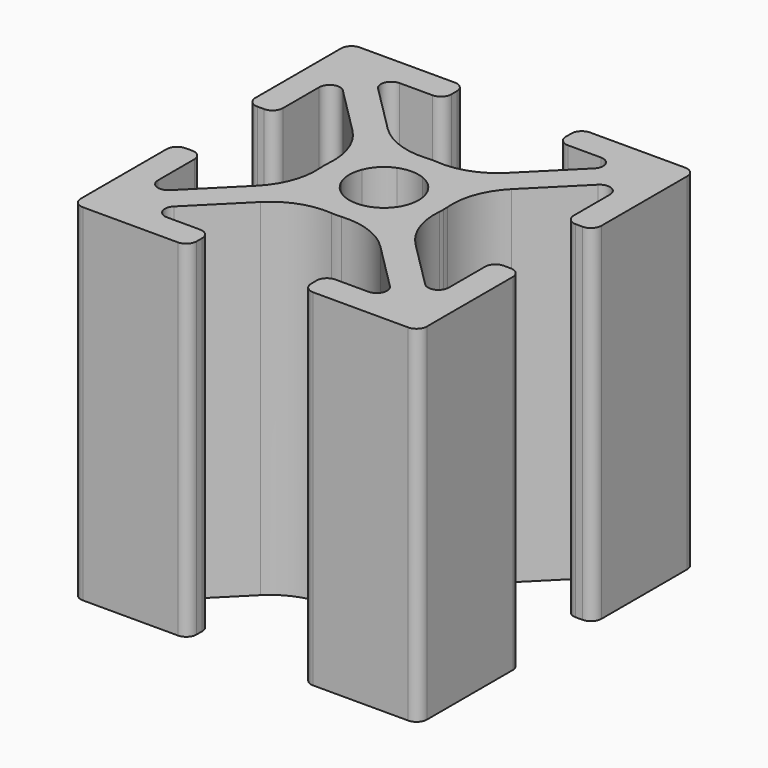
from build123d import *

# Parameters (mm, degrees)
F1_DEPTH = 25.4
F2_R     = 5.08
F3_R     = 0.762


with BuildPart() as f1:
    # F0 (on Top) → F1 (new body)
    with BuildSketch(Plane.XY):
        Polygon((-11.2631590206, 12.7), (-9.2311590206, 10.668), (-4.2022368871, 10.668), (-4.2022368871, 12.7), align=None)
        Polygon((-12.7, 11.2631590206), (-10.668, 9.2311590206), (-10.668, 10.668), (-9.2311590206, 10.668), (-11.2631590206, 12.7), (-12.7, 12.7), align=None)
        Polygon((-10.668, 3.302), (-10.668, 9.2311590206), (-12.7, 11.2631590206), (-12.7, 3.302), align=None)
        Polygon((-12.7, -3.302), (-12.7, -11.2631590206), (-10.668, -9.2311590206), (-10.668, -3.302), align=None)
        Polygon((-12.7, -12.7), (-11.2631590206, -12.7), (-9.2311590206, -10.668), (-10.668, -10.668), (-10.668, -9.2311590206), (-12.7, -11.2631590206), align=None)
        Polygon((-11.2631590206, -12.7), (-4.2022368871, -12.7), (-4.2022368871, -10.668), (-9.2311590206, -10.668), align=None)
        Polygon((4.2022368871, -12.7), (11.2631590206, -12.7), (9.2311590206, -10.668), (4.2022368871, -10.668), align=None)
        Polygon((11.2631590206, -12.7), (12.7, -12.7), (12.7, -11.2631590206), (10.668, -9.2311590206), (10.668, -10.668), (9.2311590206, -10.668), align=None)
        Polygon((10.668, -9.2311590206), (12.7, -11.2631590206), (12.7, -3.302), (10.668, -3.302), align=None)
        Polygon((10.668, 3.302), (12.7, 3.302), (12.7, 11.2631590206), (10.668, 9.2311590206), align=None)
        Polygon((10.668, 9.2311590206), (12.7, 11.2631590206), (12.7, 12.7), (11.2631590206, 12.7), (9.2311590206, 10.668), (10.668, 10.668), align=None)
        Polygon((9.2311590206, 10.668), (11.2631590206, 12.7), (4.2022368871, 12.7), (4.2022368871, 10.668), align=None)
        with BuildLine():
            Line((-10.668, 9.2311590206), (-3.7321628684, 2.295321889))
            ThreePointArc((-3.7321628684, 2.295321889), (-3.0981883618, 3.0981883618), (-2.295321889, 3.7321628684))
            Line((-2.295321889, 3.7321628684), (-9.2311590206, 10.668))
            Line((-9.2311590206, 10.668), (-10.668, 10.668))
            Line((-10.668, 10.668), (-10.668, 9.2311590206))
        make_face()
        with BuildLine():
            Line((3.7321628684, 2.295321889), (10.668, 9.2311590206))
            Line((10.668, 9.2311590206), (10.668, 10.668))
            Line((10.668, 10.668), (9.2311590206, 10.668))
            Line((9.2311590206, 10.668), (2.295321889, 3.7321628684))
            ThreePointArc((2.295321889, 3.7321628684), (3.0981883618, 3.0981883618), (3.7321628684, 2.295321889))
        make_face()
        with BuildLine():
            Line((-9.2311590206, -10.668), (-2.295321889, -3.7321628684))
            ThreePointArc((-2.295321889, -3.7321628684), (-3.0981883618, -3.0981883618), (-3.7321628684, -2.295321889))
            Line((-3.7321628684, -2.295321889), (-10.668, -9.2311590206))
            Line((-10.668, -9.2311590206), (-10.668, -10.668))
            Line((-10.668, -10.668), (-9.2311590206, -10.668))
        make_face()
        with BuildLine():
            Line((2.295321889, -3.7321628684), (9.2311590206, -10.668))
            Line((9.2311590206, -10.668), (10.668, -10.668))
            Line((10.668, -10.668), (10.668, -9.2311590206))
            Line((10.668, -9.2311590206), (3.7321628684, -2.295321889))
            ThreePointArc((3.7321628684, -2.295321889), (3.0981883618, -3.0981883618), (2.295321889, -3.7321628684))
        make_face()
        with BuildLine():
            Line((0.9276876477, 2.3645286271), (2.295321889, 3.7321628684))
            ThreePointArc((2.295321889, 3.7321628684), (0, 4.3815), (-2.295321889, 3.7321628684))
            Line((-2.295321889, 3.7321628684), (-0.9276876477, 2.3645286271))
            ThreePointArc((-0.9276876477, 2.3645286271), (0, 2.54), (0.9276876477, 2.3645286271))
        make_face()
        with BuildLine():
            ThreePointArc((-2.295321889, 3.7321628684), (-3.0981883618, 3.0981883618), (-3.7321628684, 2.295321889))
            Line((-3.7321628684, 2.295321889), (-2.3645286271, 0.9276876477))
            ThreePointArc((-2.3645286271, 0.9276876477), (-1.7960512242, 1.7960512242), (-0.9276876477, 2.3645286271))
            Line((-0.9276876477, 2.3645286271), (-2.295321889, 3.7321628684))
        make_face()
        with BuildLine():
            ThreePointArc((-3.7321628684, 2.295321889), (-4.3815, 0), (-3.7321628684, -2.295321889))
            Line((-3.7321628684, -2.295321889), (-2.3645286271, -0.9276876477))
            ThreePointArc((-2.3645286271, -0.9276876477), (-2.54, 0), (-2.3645286271, 0.9276876477))
            Line((-2.3645286271, 0.9276876477), (-3.7321628684, 2.295321889))
        make_face()
        with BuildLine():
            ThreePointArc((-3.7321628684, -2.295321889), (-3.0981883618, -3.0981883618), (-2.295321889, -3.7321628684))
            Line((-2.295321889, -3.7321628684), (-0.9276876477, -2.3645286271))
            ThreePointArc((-0.9276876477, -2.3645286271), (-1.7960512242, -1.7960512242), (-2.3645286271, -0.9276876477))
            Line((-2.3645286271, -0.9276876477), (-3.7321628684, -2.295321889))
        make_face()
        with BuildLine():
            ThreePointArc((-2.295321889, -3.7321628684), (0, -4.3815), (2.295321889, -3.7321628684))
            Line((2.295321889, -3.7321628684), (0.9276876477, -2.3645286271))
            ThreePointArc((0.9276876477, -2.3645286271), (0, -2.54), (-0.9276876477, -2.3645286271))
            Line((-0.9276876477, -2.3645286271), (-2.295321889, -3.7321628684))
        make_face()
        with BuildLine():
            Line((2.3645286271, 0.9276876477), (3.7321628684, 2.295321889))
            ThreePointArc((3.7321628684, 2.295321889), (3.0981883618, 3.0981883618), (2.295321889, 3.7321628684))
            Line((2.295321889, 3.7321628684), (0.9276876477, 2.3645286271))
            ThreePointArc((0.9276876477, 2.3645286271), (1.7960512242, 1.7960512242), (2.3645286271, 0.9276876477))
        make_face()
        with BuildLine():
            Line((2.3645286271, -0.9276876477), (3.7321628684, -2.295321889))
            ThreePointArc((3.7321628684, -2.295321889), (4.2160416185, -1.1927008515), (4.3815, 0))
            ThreePointArc((4.3815, 0), (4.2160416185, 1.1927008515), (3.7321628684, 2.295321889))
            Line((3.7321628684, 2.295321889), (2.3645286271, 0.9276876477))
            ThreePointArc((2.3645286271, 0.9276876477), (2.4957466531, 0.4720684734), (2.54, 0))
            ThreePointArc((2.54, 0), (2.4957466531, -0.4720684734), (2.3645286271, -0.9276876477))
        make_face()
        with BuildLine():
            Line((0.9276876477, -2.3645286271), (2.295321889, -3.7321628684))
            ThreePointArc((2.295321889, -3.7321628684), (3.0981883618, -3.0981883618), (3.7321628684, -2.295321889))
            Line((3.7321628684, -2.295321889), (2.3645286271, -0.9276876477))
            ThreePointArc((2.3645286271, -0.9276876477), (1.7960512242, -1.7960512242), (0.9276876477, -2.3645286271))
        make_face()
    extrude(amount=F1_DEPTH)

    # F2
    f2_edges = [f1.edges().sort_by_distance(p)[0] for p in [
        (-3.732163, 2.295322, 12.7),
        (-3.732163, -2.295322, 12.7),
        (-2.295322, 3.732163, 12.7),
        (2.295322, 3.732163, 12.7),
        (-2.295322, -3.732163, 12.7),
        (2.295322, -3.732163, 12.7),
        (3.732163, -2.295322, 12.7),
        (3.732163, 2.295322, 12.7),
    ]]
    fillet(f2_edges, radius=F2_R)

    # F3
    f3_edges = [f1.edges().sort_by_distance(p)[0] for p in [
        (9.231159, 10.668, 12.7),
        (10.668, 9.231159, 12.7),
        (-9.231159, 10.668, 12.7),
        (-10.668, 9.231159, 12.7),
        (10.668, -9.231159, 12.7),
        (9.231159, -10.668, 12.7),
        (-9.231159, -10.668, 12.7),
        (-10.668, -9.231159, 12.7),
        (-12.7, 12.7, 12.7),
        (12.7, 12.7, 12.7),
        (12.7, -12.7, 12.7),
        (-12.7, -12.7, 12.7),
        (12.7, 3.302, 12.7),
        (10.668, 3.302, 12.7),
        (4.202237, 10.668, 12.7),
        (4.202237, 12.7, 12.7),
        (-4.202237, 12.7, 12.7),
        (-4.202237, 10.668, 12.7),
        (-10.668, 3.302, 12.7),
        (-12.7, 3.302, 12.7),
        (-10.668, -3.302, 12.7),
        (-12.7, -3.302, 12.7),
        (4.202237, -10.668, 12.7),
        (4.202237, -12.7, 12.7),
        (10.668, -3.302, 12.7),
        (12.7, -3.302, 12.7),
        (-4.202237, -12.7, 12.7),
        (-4.202237, -10.668, 12.7),
    ]]
    fillet(f3_edges, radius=F3_R)


solid = f1.part
